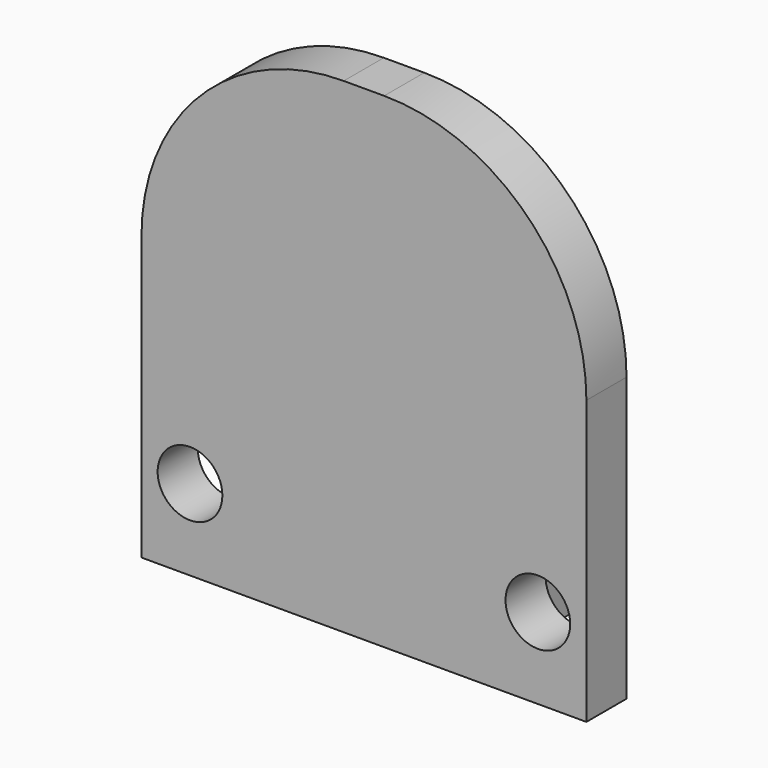
from build123d import *

# Parameters (mm, degrees)
F0_R     = 1.016
F1_DEPTH = 1.5748
F2_W     = 6.5
F2_H     = 5
F3_DEPTH = 3.2


with BuildPart() as f1:
    # F0 (on Front) → F1 (new body)
    with BuildSketch(Plane.XZ):
        with BuildLine():
            Line((0.692302, 8.904484), (-0.577698, 8.904484))
            ThreePointArc((-0.577698, 8.904484), (-5.067826, 7.044612), (-6.927698, 2.554484))
            Line((-6.927698, 2.554484), (-6.927698, -6.335516))
            Line((-6.927698, -6.335516), (7.042302, -6.335516))
            Line((7.042302, -6.335516), (7.042302, 2.554484))
            ThreePointArc((7.042302, 2.554484), (5.18243, 7.044612), (0.692302, 8.904484))
        make_face()
        with Locations((-5.403698, -3.795516)):
            Circle(F0_R, mode=Mode.SUBTRACT)
        with Locations((5.518302, -3.795516)):
            Circle(F0_R, mode=Mode.SUBTRACT)
    extrude(amount=F1_DEPTH)

    # F2 (on face) → F3 (join)
    with BuildSketch(Plane.XZ):
        with Locations((0, -3.755355)):
            Rectangle(F2_W, F2_H)
    extrude(amount=-F3_DEPTH)


solid = f1.part
